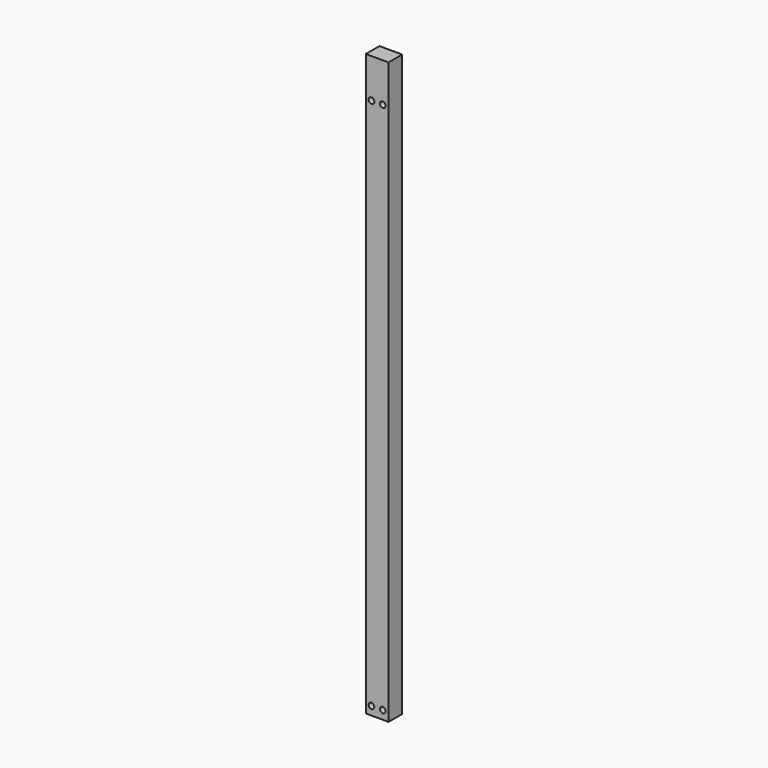
from build123d import *

# Parameters (mm, degrees)
F0_W     = 3.9878
F0_H     = 101.6
F0_R     = 0.4953
F0_R_2   = 0.5
F1_DEPTH = 2.9972


with BuildPart() as f1:
    # F0 (on Front) → F1 (new body)
    with BuildSketch(Plane.XZ):
        with Locations((-21.035596, 105.149693)):
            Rectangle(F0_W, F0_H)
        with Locations((-22.026196, 55.844993)):
            Circle(F0_R, mode=Mode.SUBTRACT)
        with Locations((-20.044996, 55.844993)):
            Circle(F0_R, mode=Mode.SUBTRACT)
        with Locations((-22.029496, 149.099693)):
            Circle(F0_R_2, mode=Mode.SUBTRACT)
        with Locations((-20.049696, 149.099693)):
            Circle(F0_R_2, mode=Mode.SUBTRACT)
    extrude(amount=F1_DEPTH)


solid = f1.part
